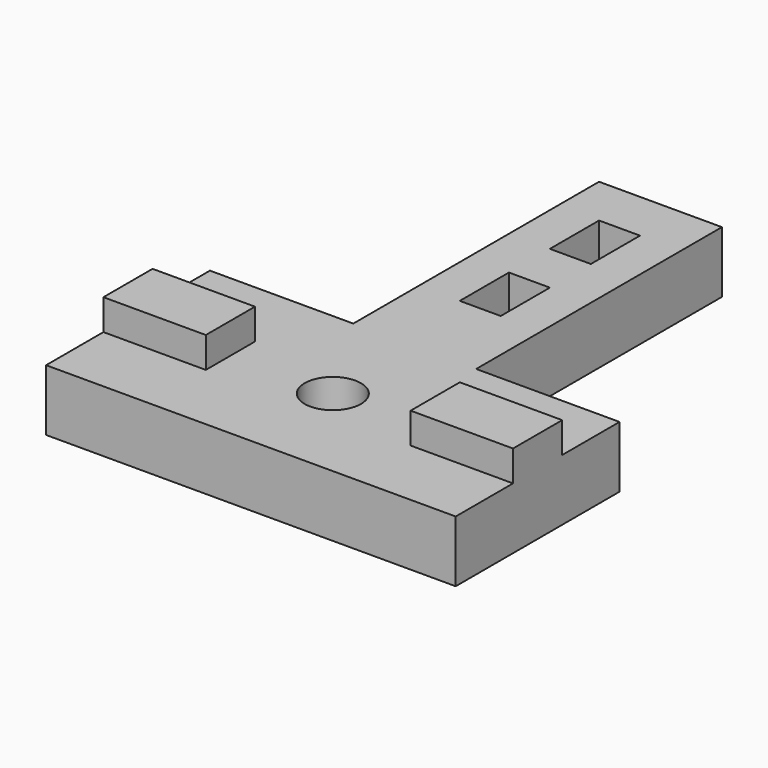
from build123d import *

# Parameters (mm, degrees)
SKETCH_R     = 2.75
SKETCH_W     = 4
SKETCH_H     = 6
PAD_DEPTH    = 6
SKETCH001_W  = 10
SKETCH001_H  = 6
PAD001_DEPTH = 3


with BuildPart() as part:
    # Sketch → Pad (new body)
    with BuildSketch(Plane.XY):
        Polygon((-6, 50), (-6, 20), (-20, 20), (-20, 0), (20, 0), (20, 20), (6, 20), (6, 50), align=None)
        with Locations((0, 10)):
            Circle(SKETCH_R, mode=Mode.SUBTRACT)
        with Locations((0, 42)):
            Rectangle(SKETCH_W, SKETCH_H, mode=Mode.SUBTRACT)
        with Locations((0, 31)):
            Rectangle(SKETCH_W, SKETCH_H, mode=Mode.SUBTRACT)
    extrude(amount=PAD_DEPTH)

    # Sketch001 (on Face19 of Pad) → Pad001 (join)
    with BuildSketch(Plane.XY.offset(6)):
        with Locations((-15, 10)):
            Rectangle(SKETCH001_W, SKETCH001_H)
        with Locations((15, 10)):
            Rectangle(SKETCH001_W, SKETCH001_H)
    extrude(amount=PAD001_DEPTH)


solid = part.part
